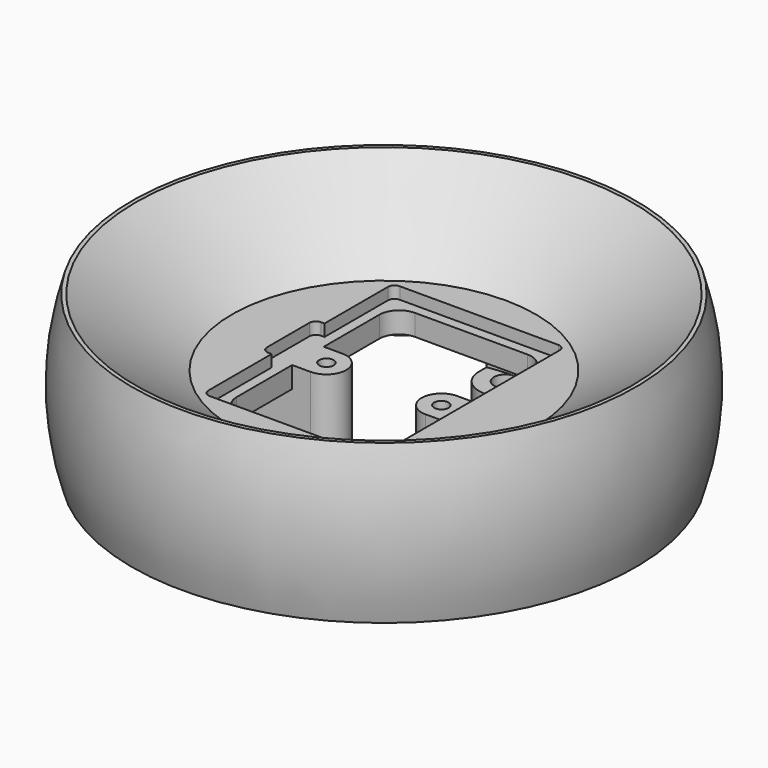
from build123d import *

# Parameters (mm, degrees)
SKETCH001_W     = 36
SKETCH001_H     = 26
POCKET_DEPTH    = 1.8
SKETCH002_W     = 33
SKETCH002_H     = 23
POCKET001_DEPTH = 12.001
PAD_DEPTH       = 12
FILLET_R        = 3
FILLET001_R     = 1
SKETCH004_R     = 1.1
POCKET002_DEPTH = 12.001
PAD001_DEPTH    = 3
PAD002_DEPTH    = 5.8
FILLET002_R     = 1
SKETCH007_W     = 10
SKETCH007_H     = 1.5
POCKET003_DEPTH = 1.8
FILLET003_R     = 1
SKETCH008_W     = 2.5
SKETCH008_H     = 0.5
POCKET004_DEPTH = 1


with BuildPart() as part:
    # Sketch → Revolution (revolve)
    with BuildSketch(Plane.YZ):
        with BuildLine():
            ThreePointArc((38.157568, -12), (40, 0), (38.157568, 12))
            Line((38.157568, 12), (37.56711, 12))
            Line((37.56711, 12), (23, 1.8))
            Line((23, 1.8), (0, 1.8))
            Line((0, 1.8), (0, -3.2))
            Line((0, -3.2), (23, -3.2))
            Line((23, -3.2), (35.567702, -12))
            Line((35.567702, -12), (38.157568, -12))
        make_face()
    revolve(axis=Axis((0, 0, 0), (0, 0, 1)))

    # Sketch001 (on Face4 of Revolution) → Pocket (cut)
    with BuildSketch(Plane(origin=(0, 0, 1.8), x_dir=(0, -1, 0), z_dir=(0, 0, 1))):
        Rectangle(SKETCH001_W, SKETCH001_H)
    extrude(amount=-POCKET_DEPTH, mode=Mode.SUBTRACT)

    # Sketch002 (on Face12 of Pocket) → Pocket001 (cut, through all)
    with BuildSketch(Plane(origin=(0, 0, 0), x_dir=(0, -1, 0), z_dir=(0, 0, 1))):
        Rectangle(SKETCH002_W, SKETCH002_H)
    extrude(amount=-POCKET001_DEPTH, mode=Mode.SUBTRACT)

    # Sketch003 (on Face16 of Pocket001) → Pad (join)
    with BuildSketch(Plane(origin=(0, 0, 0), x_dir=(0, -1, 0), z_dir=(0, 0, 1))):
        with BuildLine():
            Line((3, 35.440957), (3, 8.7))
            ThreePointArc((-3, 8.7), (0, 5.7), (3, 8.7))
            Line((-3, 8.7), (-3, 35.440957))
            ThreePointArc((3, 35.440957), (0, 35.567703), (-3, 35.440957))
        make_face()
    pad = extrude(amount=-PAD_DEPTH)

    # Mirrored: Pad across YZ
    add(pad.mirror(Plane.YZ))

    # Fillet
    fillet_edges = [part.edges().sort_by_distance(p)[0] for p in [
        (-11.5, 16.5, -1.6),
        (-11.5, -16.5, -1.6),
        (11.5, -16.5, -1.6),
        (11.5, 16.5, -1.6),
    ]]
    fillet(fillet_edges, radius=FILLET_R)

    # Fillet001
    fillet001_edges = [part.edges().sort_by_distance(p)[0] for p in [
        (13, -18, 0.9),
        (-13, -18, 0.9),
        (-13, 18, 0.9),
        (13, 18, 0.9),
    ]]
    fillet(fillet001_edges, radius=FILLET001_R)

    # Sketch004 (on Face1 of Fillet001) → Pocket002 (cut, through all)
    with BuildSketch(Plane(origin=(0, 0, 0), x_dir=(0, -1, 0), z_dir=(0, 0, 1))):
        with Locations((0, 8.7)):
            Circle(SKETCH004_R)
        with Locations((0, -8.7)):
            Circle(SKETCH004_R)
    extrude(amount=-POCKET002_DEPTH, mode=Mode.SUBTRACT)

    # Sketch005 (on Face29 of Pocket002) → Pad001 (join)
    with BuildSketch(Plane.YX.offset(12)):
        with BuildLine():
            Line((35.567702, 0), (24.75, 0))
            ThreePointArc((23.875, 1.515544), (21.484456, -0.875), (24.75, 0))
            Line((23.875, 1.515544), (25, 3.464102))
            ThreePointArc((25, 3.464102), (19.136297, 1.035276), (23, -4))
            Line((23, -4), (35.342064, -4))
            ThreePointArc((35.342064, -4), (35.511248, -2.00318), (35.567702, 0))
        make_face()
    pad001 = extrude(amount=-PAD001_DEPTH)

    # Sketch006 (on Face38 of Pad001) → Pad002 (join)
    with BuildSketch(Plane(origin=(0, 0, -9), x_dir=(0, -1, 0), z_dir=(0, 0, 1))):
        with BuildLine():
            Line((-24.75, 0), (-31.283258, 0))
            ThreePointArc((-31.283258, 0), (-31.218997, -2.004117), (-31.026477, -4))
            Line((-31.026477, -4), (-24.424629, -4))
            ThreePointArc((-24.75, 0), (-24.668523, -2.006606), (-24.424629, -4))
        make_face()
    pad002 = extrude(amount=PAD002_DEPTH)

    # Mirrored001: Pad001, Pad002 across XZ
    add(pad001.mirror(Plane.XZ))
    add(pad002.mirror(Plane.XZ))

    # Fillet002
    fillet002_edges = [part.edges().sort_by_distance(p)[0] for p in [
        (3.464102, 25, -10.5),
        (3.464102, -25, -10.5),
    ]]
    fillet(fillet002_edges, radius=FILLET002_R)

    # Sketch007 (on Face53 of Fillet002) → Pocket003 (cut)
    with BuildSketch(Plane(origin=(0, 0, 1.8), x_dir=(0, -1, 0), z_dir=(0, 0, 1))):
        with Locations((0, -13.75)):
            Rectangle(SKETCH007_W, SKETCH007_H)
    extrude(amount=-POCKET003_DEPTH, mode=Mode.SUBTRACT)

    # Fillet003
    fillet003_edges = [part.edges().sort_by_distance(p)[0] for p in [
        (-14.5, 5, 0.9),
        (-14.5, -5, 0.9),
    ]]
    fillet(fillet003_edges, radius=FILLET003_R)

    # Sketch008 (on Face40 of Fillet003) → Pocket004 (cut)
    with BuildSketch(Plane.YX.offset(12)):
        Polygon((-30.25, -1.75), (-30.25, -0.75), (-29.75, -0.75), (-29.75, -1.75), (-28.75, -1.75), (-28.75, -2.25), (-29.75, -2.25), (-29.75, -3.25), (-30.25, -3.25), (-30.25, -2.25), (-31.25, -2.25), (-31.25, -1.75), align=None)
        with Locations((30, -2)):
            Rectangle(SKETCH008_W, SKETCH008_H)
    extrude(amount=-POCKET004_DEPTH, mode=Mode.SUBTRACT)


solid = part.part
